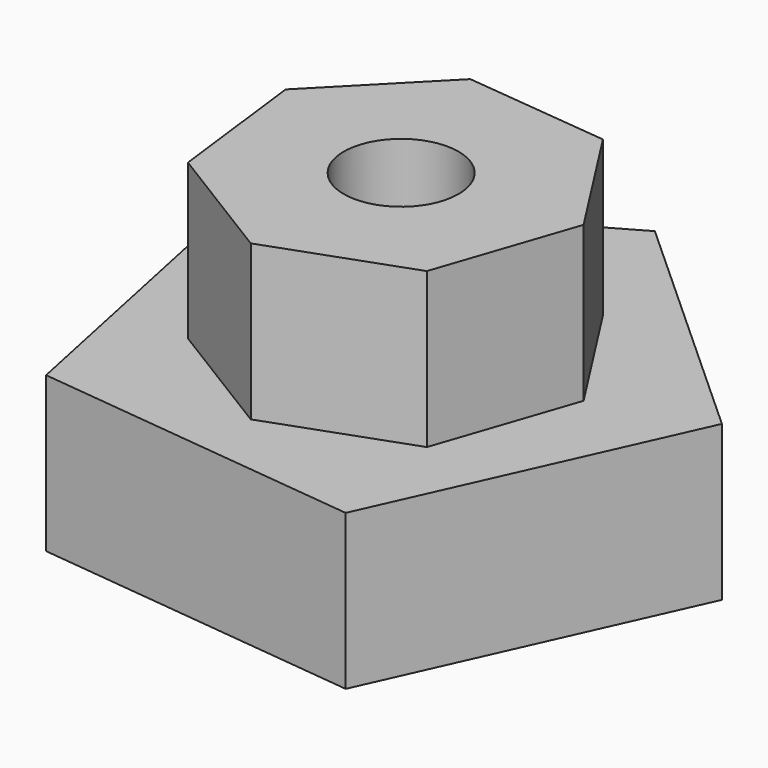
from build123d import *

# Parameters (mm, degrees)
F1_DEPTH = 25.4
F3_DEPTH = 25.4
F4_R     = 9.416615
F5_DEPTH = 94.742


with BuildPart() as f1:
    # F0 (on Top) → F1 (new body)
    with BuildSketch(Plane.XY):
        Polygon((4.981769, 45.764315), (-41.984999, 18.879895), (-30.929925, -34.095899), (22.869254, -39.952319), (45.063901, 9.404008), align=None)
    extrude(amount=F1_DEPTH)

    # F2 (on face) → F3 (join)
    with BuildSketch(Plane.XY.offset(25.4)):
        Polygon((-9.309851, 25.816305), (-25.988597, 8.817469), (-23.0974, -14.821102), (-2.81339, -27.29908), (19.589161, -19.220295), (27.240673, 3.331765), (14.379403, 23.374938), align=None)
    extrude(amount=F3_DEPTH)

    # F4 (on face) → F5 (cut)
    with BuildSketch(Plane.XY.offset(50.8)):
        Circle(F4_R)
    extrude(amount=-F5_DEPTH, mode=Mode.SUBTRACT)


solid = f1.part
